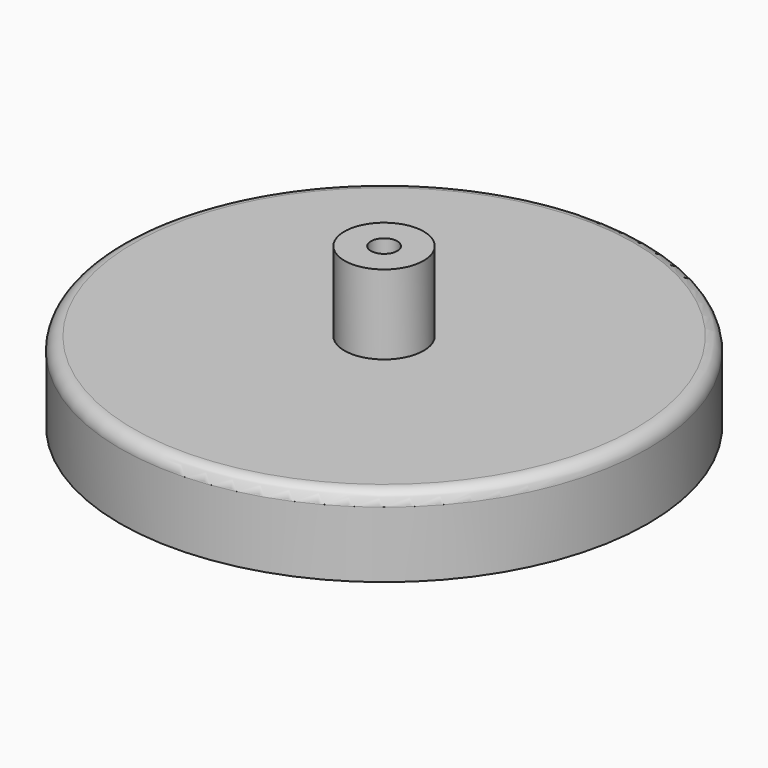
from build123d import *

# Parameters (mm, degrees)
F0_R     = 10
F1_DEPTH = 1
F2_R     = 10
F2_R_2   = 9
F3_DEPTH = 1
F4_R     = 10
F4_R_2   = 0.5
F5_DEPTH = 1
F6_R     = 1.5
F6_R_2   = 0.5
F7_DEPTH = 3
F8_R     = 0.5


with BuildPart() as f1:
    # F0 (on Top) → F1 (new body)
    with BuildSketch(Plane.XY):
        Circle(F0_R)
    extrude(amount=F1_DEPTH)

    # F2 (on face) → F3 (join)
    with BuildSketch(Plane.XY.offset(1)):
        Circle(F2_R)
        Circle(F2_R_2, mode=Mode.SUBTRACT)
    extrude(amount=F3_DEPTH)

    # F4 (on face) → F5 (join)
    with BuildSketch(Plane.XY.offset(2)):
        Circle(F4_R)
        Circle(F4_R_2, mode=Mode.SUBTRACT)
    extrude(amount=F5_DEPTH)

    # F6 (on face) → F7 (join)
    with BuildSketch(Plane.XY.offset(3)):
        Circle(F6_R)
        Circle(F6_R_2, mode=Mode.SUBTRACT)
    extrude(amount=F7_DEPTH)

    # F8
    f8_edges = [f1.edges().sort_by_distance(p)[0] for p in [
        (-10, 0, 3),
    ]]
    fillet(f8_edges, radius=F8_R)


solid = f1.part
